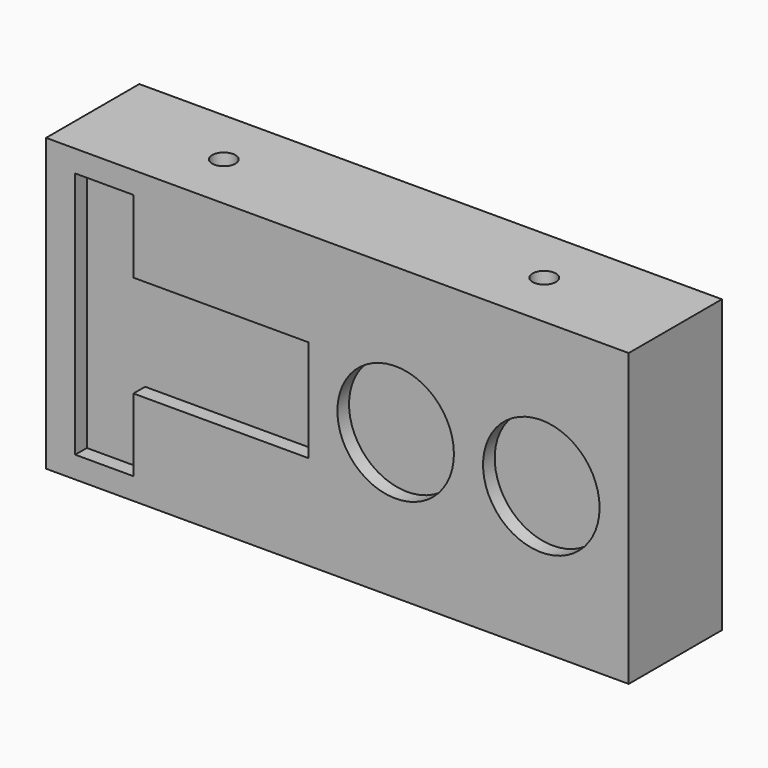
from build123d import *

# Parameters (mm, degrees)
F0_W     = 200
F0_H     = 100
F1_DEPTH = 40
F2_W     = 60
F2_H     = 35
F2_R     = 20
F3_DEPTH = 5
F4_W     = 190
F4_H     = 90
F5_DEPTH = 25
F6_R     = 4
F7_DEPTH = 40


with BuildPart() as f1:
    # F0 (on Front) → F1 (new body)
    with BuildSketch(Plane.XZ):
        Rectangle(F0_W, F0_H)
    extrude(amount=F1_DEPTH)

    # F2 (on face) → F3 (cut)
    with BuildSketch(Plane.XZ.offset(40)):
        Polygon((-90, -42.5), (-70, -42.5), (-70, -17.5), (-70, 17.5), (-70, 42.5), (-90, 42.5), align=None)
        with Locations((-40, 0)):
            Rectangle(F2_W, F2_H)
        with Locations((20, 0)):
            Circle(F2_R)
        with Locations((70, 0)):
            Circle(F2_R)
    extrude(amount=-F3_DEPTH, mode=Mode.SUBTRACT)

    # F4 (on face) → F5 (cut)
    with BuildSketch(Plane(origin=(0, 0, 0), x_dir=(-1, 0, 0), z_dir=(0, 1, 0))):
        Rectangle(F4_W, F4_H)
    extrude(amount=-F5_DEPTH, mode=Mode.SUBTRACT)

    # F6 (on face) → F7 (cut)
    with BuildSketch(Plane.XY.offset(50)):
        with Locations((-55, -20)):
            Circle(F6_R)
        with Locations((55, -20)):
            Circle(F6_R)
    extrude(amount=-F7_DEPTH, mode=Mode.SUBTRACT)


solid = f1.part
